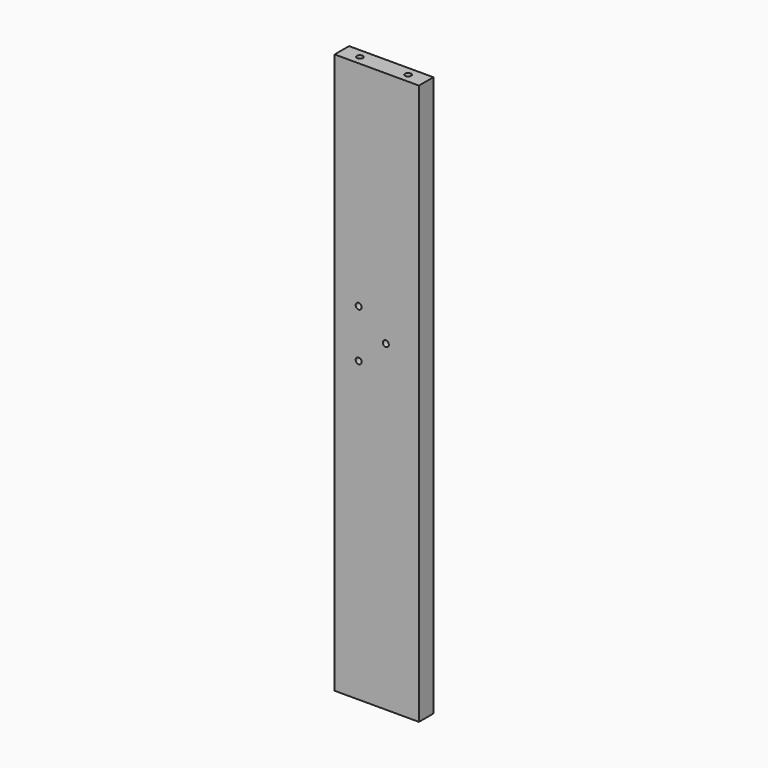
from build123d import *

# Parameters (mm, degrees)
F0_W     = 88.9
F0_H     = 590.55
F0_R     = 3.175
F1_DEPTH = 19.05
F2_R     = 3.175
F3_DEPTH = 25.4


with BuildPart() as f1:
    # F0 (on Front) → F1 (new body)
    with BuildSketch(Plane.XZ):
        with Locations((-44.45, 295.275)):
            Rectangle(F0_W, F0_H)
        with Locations((-63.5, 314.325)):
            Circle(F0_R, mode=Mode.SUBTRACT)
        with Locations((-63.5, 365.125)):
            Circle(F0_R, mode=Mode.SUBTRACT)
        with Locations((-34.925, 339.725)):
            Circle(F0_R, mode=Mode.SUBTRACT)
    extrude(amount=F1_DEPTH)

    # F2 (on face) → F3 (cut)
    with BuildSketch(Plane.XY.offset(590.55)):
        with Locations((-69.85, -9.525)):
            Circle(F2_R)
        with Locations((-19.05, -9.525)):
            Circle(F2_R)
    extrude(amount=-F3_DEPTH, mode=Mode.SUBTRACT)


solid = f1.part
